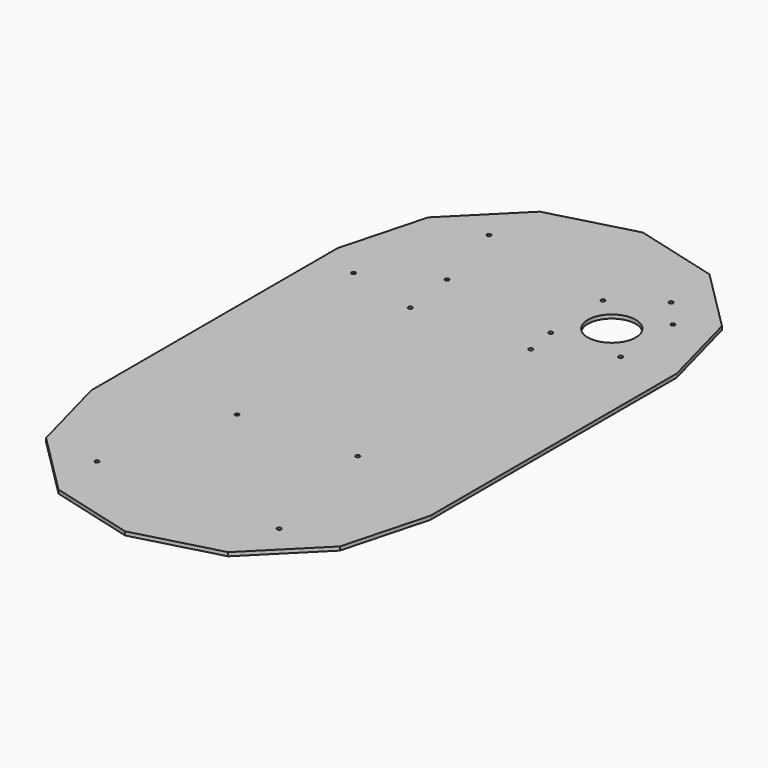
from build123d import *

# Parameters (mm, degrees)
F1_DEPTH = 3.175
F2_R     = 20.6375
F2_R_2   = 1.7272
F3_DEPTH = 3.175


with BuildPart() as f1:
    # F0 (on Top) → F1 (new body)
    with BuildSketch(Plane.XY):
        Polygon((292.1, -265.154105), (292.1, 0), (272.53301, 73.025), (219.075, 126.48301), (146.05, 146.05), (73.025, 126.48301), (19.56699, 73.025), (0, 0), (0, -265.154105), (19.56699, -338.179105), (73.025, -391.637115), (146.05, -411.204105), (219.075, -391.637115), (272.53301, -338.179105), align=None)
    extrude(amount=F1_DEPTH)

    # F2 (on face) → F3 (cut, through all)
    with BuildSketch(Plane.XY.offset(3.175)):
        with Locations((217.185523, 23.698288)):
            Circle(F2_R)
        with Locations((92.312386, -37.126894)):
            Circle(F2_R_2)
        with Locations((193.443454, -33.823195)):
            Circle(F2_R_2)
        with Locations((188.791324, -6.613696)):
            Circle(F2_R_2)
        with Locations((247.497507, -4.695911)):
            Circle(F2_R_2)
        with Locations((245.579723, 54.010272)):
            Circle(F2_R_2)
        with Locations((186.873539, 52.092488)):
            Circle(F2_R_2)
        with Locations((199.787614, -228.027211)):
            Circle(F2_R_2)
        with Locations((98.656546, -231.330911)):
            Circle(F2_R_2)
        with Locations((224.475897, 78.425897)):
            Circle(F2_R_2)
        with Locations((67.624103, 78.425897)):
            Circle(F2_R_2)
        with Locations((67.624103, -343.580002)):
            Circle(F2_R_2)
        with Locations((224.475897, -343.580002)):
            Circle(F2_R_2)
        with Locations((31.05851, -21.485911)):
            Circle(F2_R_2)
        with Locations((86.051124, 10.264089)):
            Circle(F2_R_2)
    extrude(amount=-F3_DEPTH, mode=Mode.SUBTRACT)


solid = f1.part
